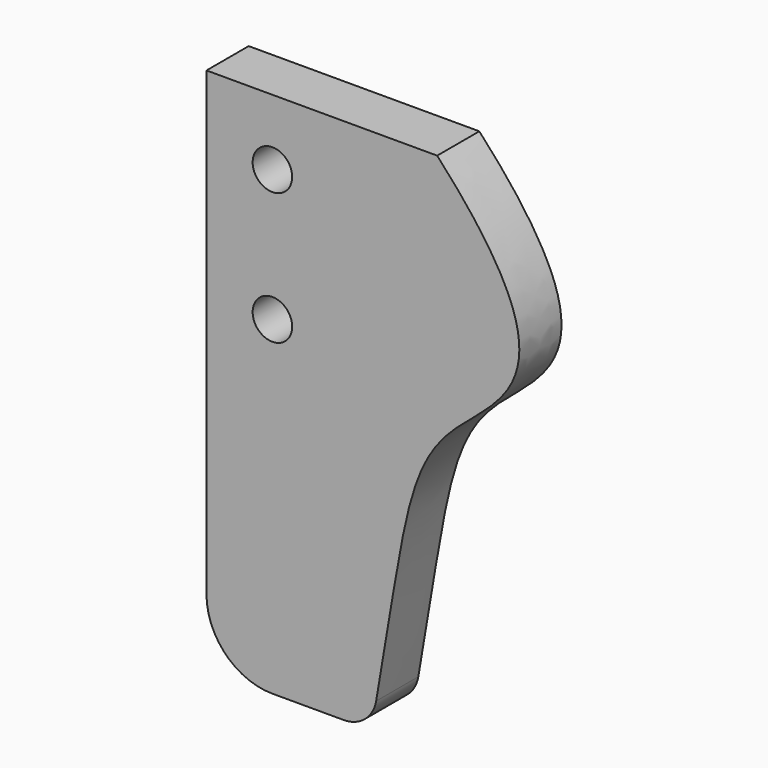
from build123d import *

# Parameters (mm, degrees)
F0_R     = 3
F2_DEPTH = 8
F3_R     = 10
F4_R     = 5


with BuildPart() as f2:
    # F0 (on Front) → F2 (new body)
    with BuildSketch(Plane.XZ):
        with BuildLine():
            Line((-115, 40), (-150, 40))
            Line((-150, 40), (-150, -40))
            Line((-150, -40), (-125, -40))
            add(Edge.make_bspline(
                [(-125, -40), (-119.8519719708, -11.7183000191), (-120.3236686159, 4.6519688966), (-92.7757024765, 15.9931648523), (-115, 40)],
                knots=[0, 0, 0, 0, 0.5311625984, 1, 1, 1, 1], degree=3))
        make_face()
        with Locations((-140, 10)):
            Circle(F0_R, mode=Mode.SUBTRACT)
        with Locations((-140, 30)):
            Circle(F0_R, mode=Mode.SUBTRACT)
    extrude(amount=F2_DEPTH)

    # F3
    f3_edges = [f2.edges().sort_by_distance(p)[0] for p in [
        (-150, -4, -40),
    ]]
    fillet(f3_edges, radius=F3_R)

    # F4
    f4_edges = [f2.edges().sort_by_distance(p)[0] for p in [
        (-125, -4, -40),
    ]]
    fillet(f4_edges, radius=F4_R)


solid = f2.part
